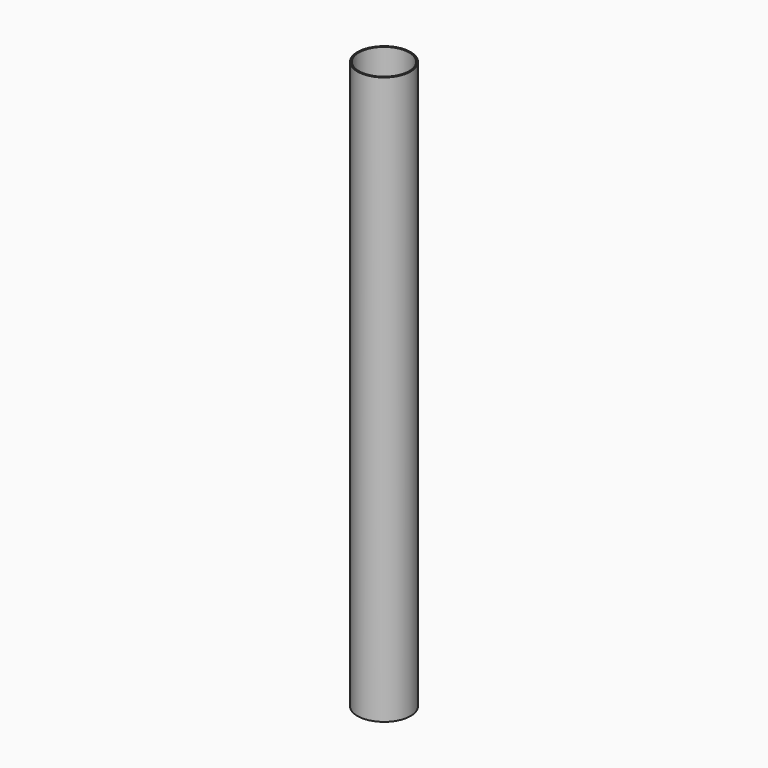
from build123d import *

# Parameters (mm, degrees)
SKETCH_R     = 28.5748
PAD_DEPTH    = 609.6
SKETCH001_R  = 27
POCKET_DEPTH = 609.601


with BuildPart() as part:
    # Sketch → Pad (new body)
    with BuildSketch(Plane.XY):
        Circle(SKETCH_R)
    extrude(amount=PAD_DEPTH)

    # Sketch001 (on Face3 of Pad) → Pocket (cut, through all)
    with BuildSketch(Plane.XY.offset(609.6)):
        Circle(SKETCH001_R)
    extrude(amount=-POCKET_DEPTH, mode=Mode.SUBTRACT)


solid = part.part
